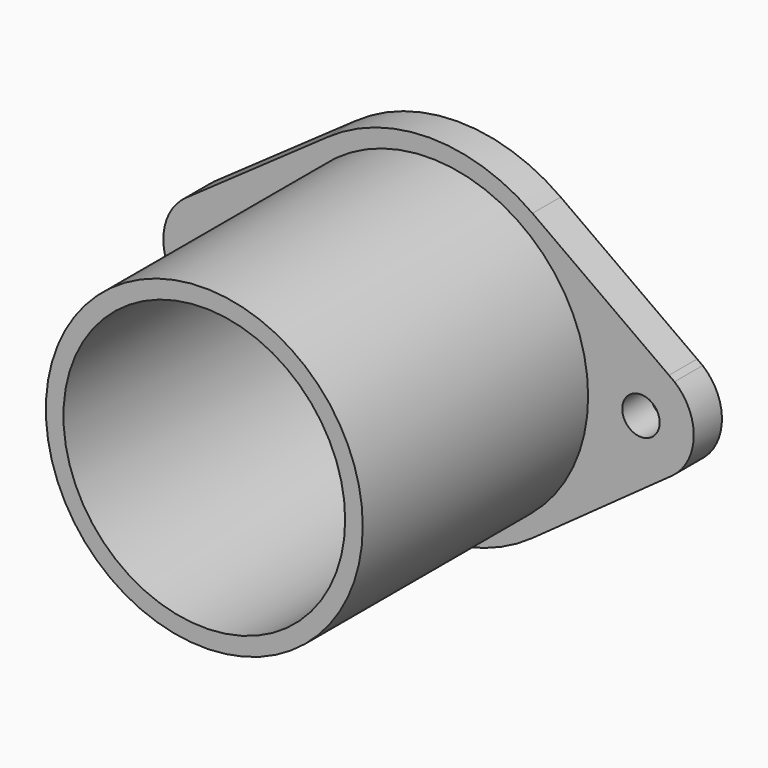
from build123d import *

# Parameters (mm, degrees)
F0_R     = 3.3782
F0_R_2   = 28.575
F1_DEPTH = 6.35
F2_R     = 28.575
F2_R_2   = 25.4
F3_DEPTH = 50.8


with BuildPart() as f1:
    # F0 (on Front) → F1 (new body)
    with BuildSketch(Plane.XZ):
        with BuildLine():
            Line((-43.496225, -8.2262), (-18.264144, -25.970821))
            ThreePointArc((-18.264144, -25.970821), (0.177032, -31.749506), (18.552621, -25.765535))
            Line((18.552621, -25.765535), (43.656244, -7.736522))
            ThreePointArc((43.656244, -7.736522), (47.619978, -0.30927), (44.146663, 7.359585))
            Line((44.146663, 7.359585), (43.152689, 8.074402))
            Line((43.152689, 8.074402), (18.537243, 25.7766))
            ThreePointArc((18.537243, 25.7766), (-0.023698, 31.749991), (-18.575701, 25.7489))
            Line((-18.575701, 25.7489), (-43.895639, 7.960057))
            ThreePointArc((-43.895639, 7.960057), (-48.028327, 0.244496), (-44.288563, -7.668983))
            Line((-44.288563, -7.668983), (-43.496225, -8.2262))
        make_face()
        with Locations((-38.3032, 0)):
            Circle(F0_R, mode=Mode.SUBTRACT)
        Circle(F0_R_2, mode=Mode.SUBTRACT)
        with Locations((38.1, 0)):
            Circle(F0_R, mode=Mode.SUBTRACT)
    extrude(amount=-F1_DEPTH)


with BuildPart() as f3:
    # F2 (on Front) → F3 (new body)
    with BuildSketch(Plane.XZ):
        Circle(F2_R)
        Circle(F2_R_2, mode=Mode.SUBTRACT)
    extrude(amount=F3_DEPTH)


solid = Compound([f1.part, f3.part])
